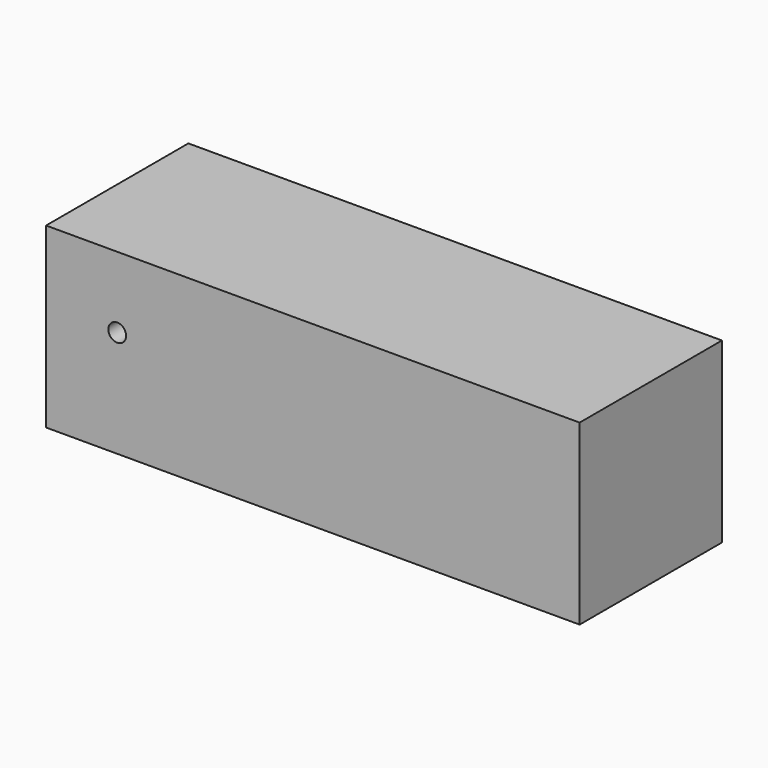
from build123d import *

# Parameters (mm, degrees)
F0_W     = 150
F0_H     = 50
F1_DEPTH = 50
F2_R     = 2.5
F3_DEPTH = 50
F4_R     = 10
F5_DEPTH = 100


with BuildPart() as f1:
    # F0 (on Front) → F1 (new body)
    with BuildSketch(Plane.XZ):
        with Locations((25, 25)):
            Rectangle(F0_W, F0_H)
    extrude(amount=F1_DEPTH)

    # F2 (on Front) → F3 (cut)
    with BuildSketch(Plane.XZ):
        with Locations((-30, 30)):
            Circle(F2_R)
    extrude(amount=F3_DEPTH, mode=Mode.SUBTRACT)

    # F4 (on face) → F5 (cut)
    with BuildSketch(Plane(origin=(-50, 0, 0), x_dir=(0, -1, 0), z_dir=(-1, 0, 0))):
        with Locations((25, 30)):
            Circle(F4_R)
    extrude(amount=-F5_DEPTH, mode=Mode.SUBTRACT)


solid = f1.part
